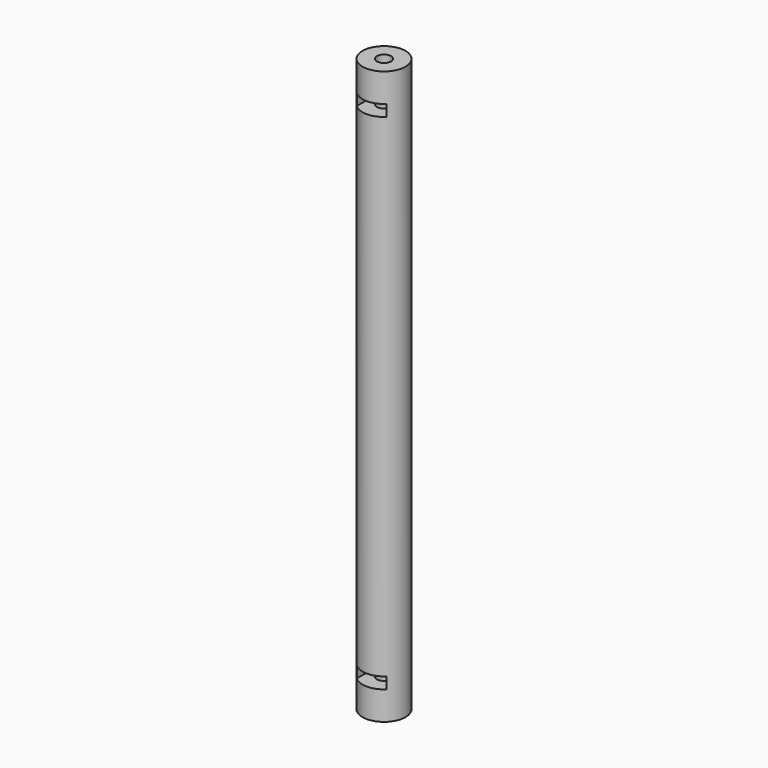
from build123d import *

# Parameters (mm, degrees)
BOX010_W          = 6.2
BOX010_H          = 10
BOX010_DEPTH      = 2.4
BOX011_W          = 6.2
BOX011_H          = 10
BOX011_DEPTH      = 2.4
CYLINDER008_R     = 1.5
CYLINDER008_DEPTH = 20
CYLINDER007_R     = 1.5
CYLINDER007_DEPTH = 20
CYLINDER006_R     = 4.5
CYLINDER006_DEPTH = 120


with BuildPart() as nut1:
    # Box010 → Box010 (new body)
    with BuildSketch(Plane(origin=(-3.1, -5, 6), x_dir=(1, 0, 0), z_dir=(0, 0, 1))):
        with Locations((3.1, 5)):
            Rectangle(BOX010_W, BOX010_H)
    extrude(amount=BOX010_DEPTH)


with BuildPart() as nut2:
    # Box011 → Box011 (new body)
    with BuildSketch(Plane(origin=(-3.1, -5, 111.6), x_dir=(1, 0, 0), z_dir=(0, 0, 1))):
        with Locations((3.1, 5)):
            Rectangle(BOX011_W, BOX011_H)
    extrude(amount=BOX011_DEPTH)


with BuildPart() as columnhole2:
    # Cylinder008 → Cylinder008 (new body)
    with BuildSketch(Plane.XY.offset(100)):
        Circle(CYLINDER008_R)
    extrude(amount=CYLINDER008_DEPTH)


with BuildPart() as columnhole1:
    # Cylinder007 → Cylinder007 (new body)
    with BuildSketch(Plane.XY):
        Circle(CYLINDER007_R)
    extrude(amount=CYLINDER007_DEPTH)


with BuildPart() as column:
    # Cylinder006 → Cylinder006 (new body)
    with BuildSketch(Plane.XY):
        Circle(CYLINDER006_R)
    extrude(amount=CYLINDER006_DEPTH)

    # Cut010: cut ColumnHole1
    add(columnhole1.part, mode=Mode.SUBTRACT)

    # Cut011: cut ColumnHole2
    add(columnhole2.part, mode=Mode.SUBTRACT)

    # Cut012: cut Nut2
    add(nut2.part, mode=Mode.SUBTRACT)

    # Cut013: cut Nut1
    add(nut1.part, mode=Mode.SUBTRACT)


solid = column.part
